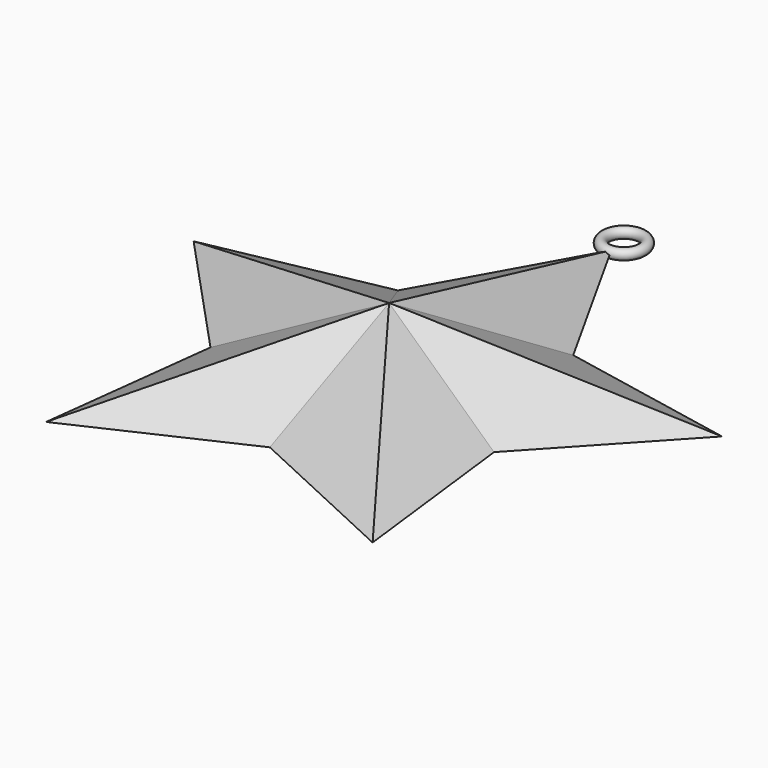
from build123d import *

# Parameters (mm, degrees)
F6_R = 1


with BuildPart() as f3:
    # F0 (on Top) → F3 section 0
    with BuildSketch(Plane.XY, mode=Mode.PRIVATE) as f3_s0:
        Polygon((16.732227, 23.029935), (0, 53.037316), (-16.732227, 23.029935), (-50.441485, 16.389432), (-27.073313, -8.796653), (-31.174552, -42.90809), (0, -28.466566), (31.174552, -42.90809), (27.073313, -8.796653), (50.441485, 16.389432), align=None)
    loft([f3_s0.sketch, Vertex(0, 0, 12.7)])

    # F4: F3 across plane


with BuildPart() as f3_1:
    add(f3.part)
    add(f3.part.mirror(Plane.XY))

    # F7: sweep along a path in F5
    with BuildLine(Plane.XY) as f7_path:
        CenterArc((0, 56.037316), 3.75, 0, 360)
    # F6 (on Right) → F7 (sweep)
    with BuildSketch(Plane.YZ):
        with Locations((59.537316, 0)):
            Circle(F6_R)
    sweep(path=f7_path.line)


solid = f3_1.part
